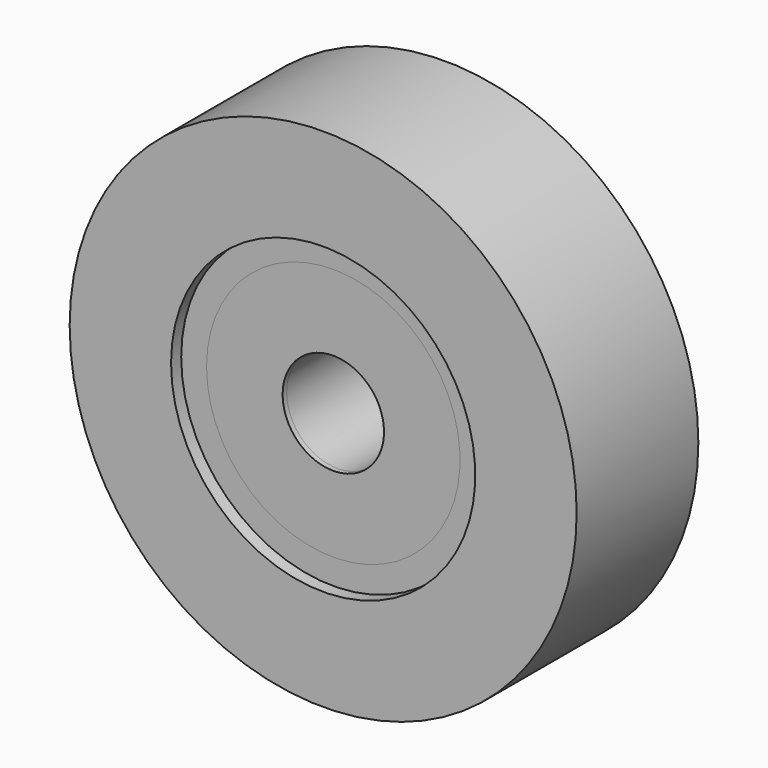
from build123d import *

# Parameters (mm, degrees)
F0_W = 2
F0_H = 3
F2_W = 1.5
F2_H = 2.5
F4_W = 1.5
F4_H = 2.5
F6_W = 1.5
F6_H = 2.3
F8_W = 2
F8_H = 2.3


with BuildPart() as f1:
    # F0 (on Top) → F1 (revolve)
    with BuildSketch(Plane.XY):
        with Locations((-4, 0)):
            Rectangle(F0_W, F0_H)
    revolve(axis=Axis((0, 0, 0), (0, -1, 0)))


with BuildPart() as f3:
    # F2 (on Top) → F3 (revolve)
    with BuildSketch(Plane.XY):
        with Locations((-3.25, 0)):
            Rectangle(F2_W, F2_H)
    revolve(axis=Axis((0, 0, 0), (0, -1, 0)))


with BuildPart() as f5:
    # F4 (on Top) → F5 (revolve)
    with BuildSketch(Plane.XY):
        with Locations((-1.75, 0)):
            Rectangle(F4_W, F4_H)
    revolve(axis=Axis((0, 0, 0), (0, -1, 0)))


with BuildPart() as f7:
    # F6 (on Top) → F7 (revolve)
    with BuildSketch(Plane.XY):
        with Locations((-1.75, 0)):
            Rectangle(F6_W, F6_H)
    revolve(axis=Axis((0, 0, 0), (0, -1, 0)))


with BuildPart() as f9:
    # F8 (on Top) → F9 (revolve)
    with BuildSketch(Plane.XY):
        with Locations((-2, 0)):
            Rectangle(F8_W, F8_H)
    revolve(axis=Axis((0, 0, 0), (0, -1, 0)))


solid = Compound([f1.part, f3.part, f5.part, f7.part, f9.part])
